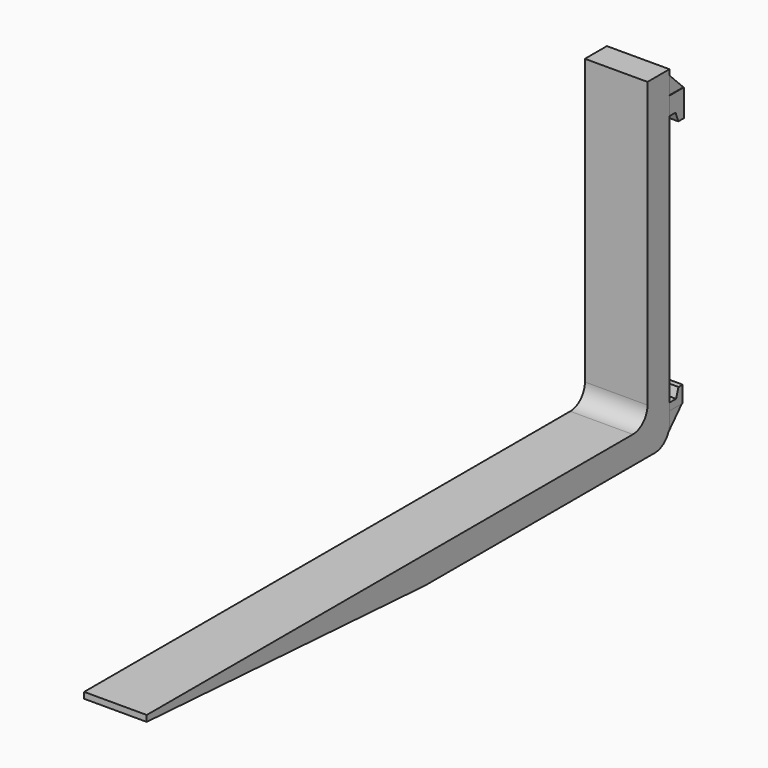
from build123d import *

# Parameters (mm, degrees)
F1_DEPTH = 51.25
F2_R     = 30
F9_DEPTH = 50.8
F5_DEPTH = 50.8
F7_DEPTH = 50


with BuildPart() as f1:
    # F0 (on Right) → F1 (new body, symmetric)
    with BuildSketch(Plane.YZ):
        Polygon((-1025, -10), (-455, -45), (45, -45), (45, 496), (0, 496), (0, 0), (-1025, 0), align=None)
    extrude(amount=F1_DEPTH, both=True)

    # F2
    f2_edges = [f1.edges().sort_by_distance(p)[0] for p in [
        (0, 0, 0),
        (0, 45, -45),
    ]]
    fillet(f2_edges, radius=F2_R)

    # F3 (on Right) → F9 (join, symmetric)
    with BuildSketch(Plane.YZ):
        Polygon((45, 15), (45, 3), (72.5, 3), (72.5, 30), (64, 30), (59, 15), align=None)
    extrude(amount=F9_DEPTH, both=True)

    # F4 (on Right) → F5 (join, symmetric)
    with BuildSketch(Plane.YZ):
        Polygon((75, 457.5), (45, 457.5), (45, 428), (58, 428), (63.7, 413), (75, 413), align=None)
    extrude(amount=F5_DEPTH, both=True)

    # F6 (on Right) → F7 (join, symmetric)
    with BuildSketch(Plane.YZ):
        with BuildLine():
            Line((72.5, 3), (45, 3))
            Line((45, 3), (45, -15))
            ThreePointArc((45, -15), (42.9359111554, -25.9354866338), (37.0276754722, -35.3661855361))
            Line((37.0276754722, -35.3661855361), (72.5, 3))
        make_face()
        Polygon((75, 457.5), (45, 487.5), (45, 457.5), align=None)
    extrude(amount=F7_DEPTH, both=True)


solid = f1.part
